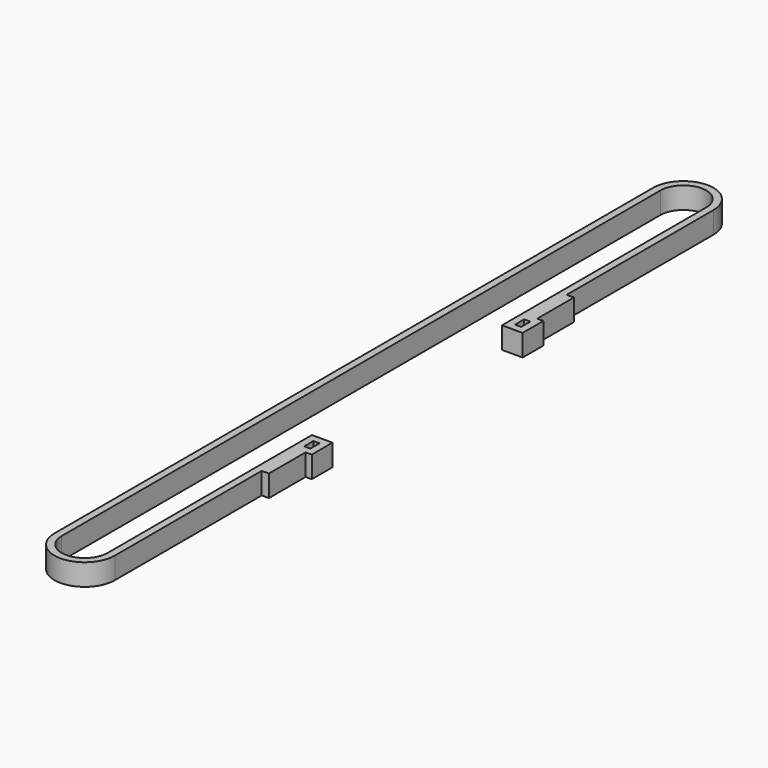
from build123d import *

# Parameters (mm, degrees)
F0_W     = 1.70942
F0_H     = 3.175
F1_DEPTH = 6


with BuildPart() as f1:
    # F0 (on Top) → F1 (new body)
    with BuildSketch(Plane.XY):
        with BuildLine():
            Line((3.70942, 2), (-2, 2))
            Line((-2, 2), (-2, -68.675))
            ThreePointArc((-2, -68.675), (-8.35, -75.025), (-14.7, -68.675))
            Line((-14.7, -68.675), (-14.7, 138.442501))
            ThreePointArc((-14.7, 138.442501), (-8.35, 144.792501), (-2, 138.442501))
            Line((-2, 138.442501), (-2, 67.767501))
            Line((-2, 67.767501), (3.70942, 67.767501))
            Line((3.70942, 67.767501), (3.70942, 74.942501))
            Line((3.70942, 74.942501), (2, 74.942501))
            Line((2, 74.942501), (2, 87.642501))
            Line((2, 87.642501), (0, 87.642501))
            Line((0, 87.642501), (0, 138.442501))
            ThreePointArc((0, 138.442501), (-8.35, 146.792501), (-16.7, 138.442501))
            Line((-16.7, 138.442501), (-16.7, -68.675))
            ThreePointArc((-16.7, -68.675), (-8.35, -77.025), (0, -68.675))
            Line((0, -68.675), (0, -17.875))
            Line((0, -17.875), (2, -17.875))
            Line((2, -17.875), (2, -5.175))
            Line((2, -5.175), (3.70942, -5.175))
            Line((3.70942, -5.175), (3.70942, 2))
        make_face()
        with Locations((0.85471, -1.5875)):
            Rectangle(F0_W, F0_H, mode=Mode.SUBTRACT)
        with Locations((0.85471, 71.355001)):
            Rectangle(F0_W, F0_H, mode=Mode.SUBTRACT)
    extrude(amount=F1_DEPTH)


solid = f1.part
